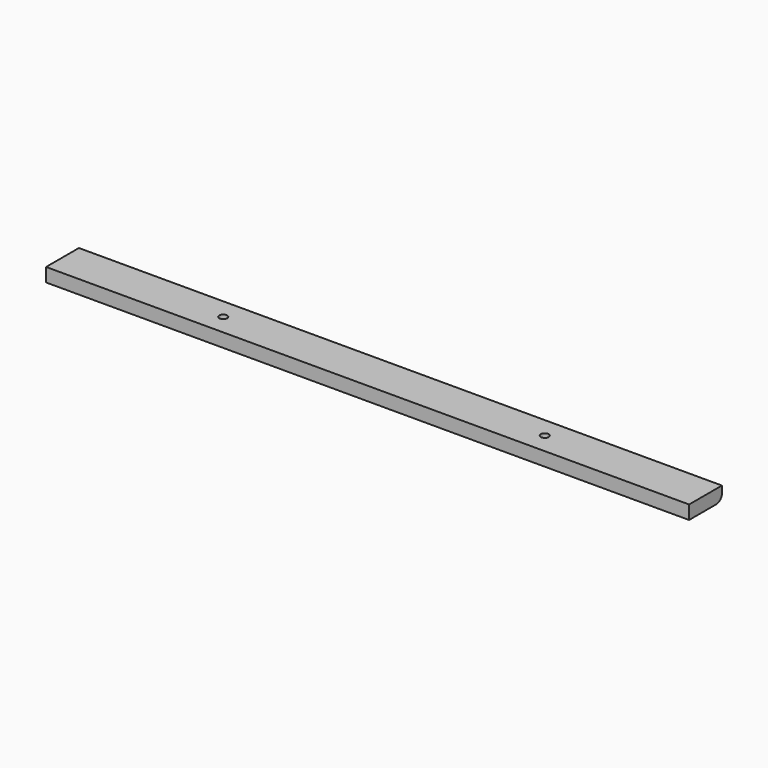
from build123d import *

# Parameters (mm, degrees)
F0_W     = 298.45
F0_H     = 19.05
F0_R     = 1.8288
F1_DEPTH = 6.35
F2_R     = 3.175


with BuildPart() as f1:
    # F0 (on Top) → F1 (new body)
    with BuildSketch(Plane.XY):
        with Locations((149.225, -9.525)):
            Rectangle(F0_W, F0_H)
        with Locations((74.6125, -9.525)):
            Circle(F0_R, mode=Mode.SUBTRACT)
        with Locations((223.8375, -9.525)):
            Circle(F0_R, mode=Mode.SUBTRACT)
    extrude(amount=F1_DEPTH)

    # F2
    f2_edges = [f1.edges().sort_by_distance(p)[0] for p in [
        (149.225, 0, 0),
    ]]
    fillet(f2_edges, radius=F2_R)


solid = f1.part
